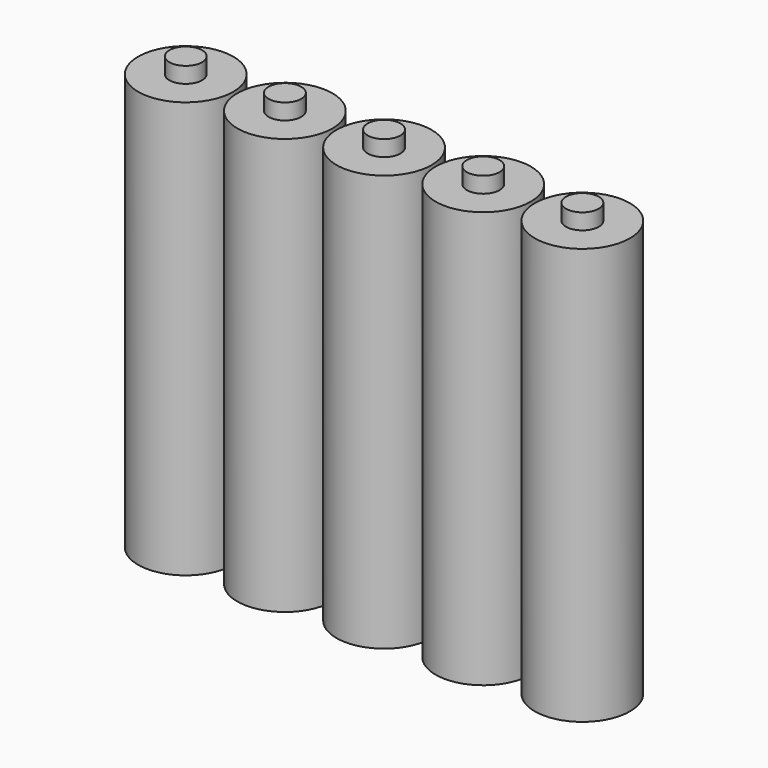
from build123d import *

# Parameters (mm, degrees)
CYLINDER053_R     = 1.65
CYLINDER053_DEPTH = 1.6
CYLINDER052_R     = 4.8
CYLINDER052_DEPTH = 42
CYLINDER055_R     = 1.65
CYLINDER055_DEPTH = 1.6
CYLINDER054_R     = 4.8
CYLINDER054_DEPTH = 42
CYLINDER057_R     = 1.65
CYLINDER057_DEPTH = 1.6
CYLINDER056_R     = 4.8
CYLINDER056_DEPTH = 42
CYLINDER059_R     = 1.65
CYLINDER059_DEPTH = 1.6
CYLINDER058_R     = 4.8
CYLINDER058_DEPTH = 42
CYLINDER061_R     = 1.65
CYLINDER061_DEPTH = 1.6
CYLINDER060_R     = 4.8
CYLINDER060_DEPTH = 42


with BuildPart() as cylinder105:
    # Cylinder053 → Cylinder053 (new body)
    with BuildSketch(Plane.XY.offset(42)):
        Circle(CYLINDER053_R)
    extrude(amount=CYLINDER053_DEPTH)


with BuildPart() as fusion086:
    # Cylinder052 → Cylinder052 (new body)
    with BuildSketch(Plane.XY):
        Circle(CYLINDER052_R)
    extrude(amount=CYLINDER052_DEPTH)

    # Fusion086: union Cylinder105
    add(cylinder105.part)


with BuildPart() as fusion086_1:
    # Fusion086 placement: moved
    add(fusion086.part.moved(Location((2, 0, 0))))


with BuildPart() as cylinder107:
    # Cylinder055 → Cylinder055 (new body)
    with BuildSketch(Plane.XY.offset(42)):
        Circle(CYLINDER055_R)
    extrude(amount=CYLINDER055_DEPTH)


with BuildPart() as fusion087:
    # Cylinder054 → Cylinder054 (new body)
    with BuildSketch(Plane.XY):
        Circle(CYLINDER054_R)
    extrude(amount=CYLINDER054_DEPTH)

    # Fusion087: union Cylinder107
    add(cylinder107.part)


with BuildPart() as fusion087_1:
    # Fusion087 placement: moved
    add(fusion087.part.moved(Location((12, 0, 0))))


with BuildPart() as cylinder109:
    # Cylinder057 → Cylinder057 (new body)
    with BuildSketch(Plane.XY.offset(42)):
        Circle(CYLINDER057_R)
    extrude(amount=CYLINDER057_DEPTH)


with BuildPart() as fusion088:
    # Cylinder056 → Cylinder056 (new body)
    with BuildSketch(Plane.XY):
        Circle(CYLINDER056_R)
    extrude(amount=CYLINDER056_DEPTH)

    # Fusion088: union Cylinder109
    add(cylinder109.part)


with BuildPart() as fusion088_1:
    # Fusion088 placement: moved
    add(fusion088.part.moved(Location((22, 0, 0))))


with BuildPart() as cylinder111:
    # Cylinder059 → Cylinder059 (new body)
    with BuildSketch(Plane.XY.offset(42)):
        Circle(CYLINDER059_R)
    extrude(amount=CYLINDER059_DEPTH)


with BuildPart() as fusion089:
    # Cylinder058 → Cylinder058 (new body)
    with BuildSketch(Plane.XY):
        Circle(CYLINDER058_R)
    extrude(amount=CYLINDER058_DEPTH)

    # Fusion089: union Cylinder111
    add(cylinder111.part)


with BuildPart() as fusion089_1:
    # Fusion089 placement: moved
    add(fusion089.part.moved(Location((32, 0, 0))))


with BuildPart() as cylinder113:
    # Cylinder061 → Cylinder061 (new body)
    with BuildSketch(Plane.XY.offset(42)):
        Circle(CYLINDER061_R)
    extrude(amount=CYLINDER061_DEPTH)


with BuildPart() as aaa_batts:
    # Cylinder060 → Cylinder060 (new body)
    with BuildSketch(Plane.XY):
        Circle(CYLINDER060_R)
    extrude(amount=CYLINDER060_DEPTH)

    # Fusion093: union Cylinder113
    add(cylinder113.part)


with BuildPart() as aaa_batts_1:
    # Fusion093 placement: moved
    add(aaa_batts.part.moved(Location((-8, 0, 0))))

    # Fusion094: union Fusion086, Fusion087, Fusion088, Fusion089
    add(fusion086_1.part)
    add(fusion087_1.part)
    add(fusion088_1.part)
    add(fusion089_1.part)


with BuildPart() as aaa_batts_2:
    # Fusion094 placement: moved
    add(aaa_batts_1.part.moved(Location((2.5, 0, 2))))


solid = aaa_batts_2.part
